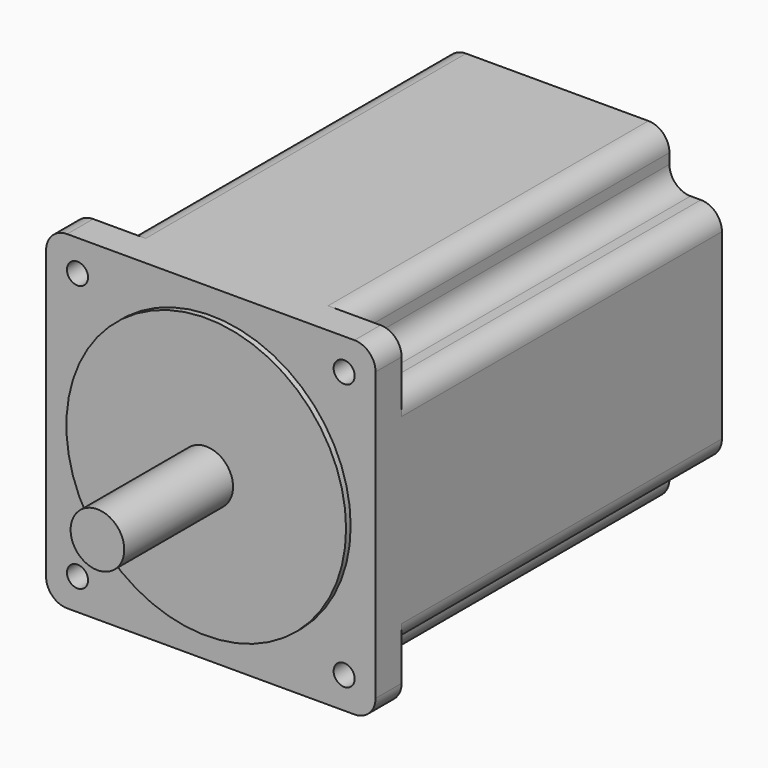
from build123d import *

# Parameters (mm, degrees)
F1_W      = 86
F1_H      = 86
F1_R      = 2.75
F2_DEPTH  = 8.5
F3_R      = 36.5
F4_DEPTH  = 1.5
F5_R      = 7
F6_DEPTH  = 37
F8_DEPTH  = 113
F9_R      = 5.5
F10_R     = 3.175
F11_DEPTH = 13.5


with BuildPart() as f2:
    # F1 (on Front) → F2 (new body)
    with BuildSketch(Plane.XZ):
        Rectangle(F1_W, F1_H)
        with Locations((-34.8, -34.8)):
            Circle(F1_R, mode=Mode.SUBTRACT)
        with Locations((34.8, -34.8)):
            Circle(F1_R, mode=Mode.SUBTRACT)
        with Locations((-34.8, 34.8)):
            Circle(F1_R, mode=Mode.SUBTRACT)
        with Locations((34.8, 34.8)):
            Circle(F1_R, mode=Mode.SUBTRACT)
    extrude(amount=-F2_DEPTH)

    # F3 (on Front) → F4 (join)
    with BuildSketch(Plane.XZ):
        Circle(F3_R)
    extrude(amount=F4_DEPTH)

    # F5 (on Front) → F6 (join)
    with BuildSketch(Plane.XZ):
        Circle(F5_R)
    extrude(amount=F6_DEPTH)

    # F7 (on Front) → F8 (join)
    with BuildSketch(Plane.XZ):
        with BuildLine():
            ThreePointArc((34.8, 29.3), (30.9109127035, 30.9109127035), (29.3, 34.8))
            Line((29.3, 34.8), (29.3, 43))
            Line((29.3, 43), (-29.3, 43))
            Line((-29.3, 43), (-29.3, 34.8))
            ThreePointArc((-29.3, 34.8), (-30.9109127035, 30.9109127035), (-34.8, 29.3))
            Line((-34.8, 29.3), (-43, 29.3))
            Line((-43, 29.3), (-43, -29.3))
            Line((-43, -29.3), (-34.8, -29.3))
            ThreePointArc((-34.8, -29.3), (-30.9109127035, -30.9109127035), (-29.3, -34.8))
            Line((-29.3, -34.8), (-29.3, -43))
            Line((-29.3, -43), (29.3, -43))
            Line((29.3, -43), (29.3, -34.8))
            ThreePointArc((29.3, -34.8), (30.9109127035, -30.9109127035), (34.8, -29.3))
            Line((34.8, -29.3), (43, -29.3))
            Line((43, -29.3), (43, 29.3))
            Line((43, 29.3), (34.8, 29.3))
        make_face()
    extrude(amount=-F8_DEPTH)

    # F9
    f9_edges = [f2.edges().sort_by_distance(p)[0] for p in [
        (29.3, 60.75, 43),
        (43, 60.75, 29.3),
        (43, 4.25, 43),
        (-29.3, 60.75, 43),
        (-43, 60.75, 29.3),
        (-43, 4.25, 43),
        (43, 60.75, -29.3),
        (29.3, 60.75, -43),
        (-43, 4.25, -43),
        (-29.3, 60.75, -43),
        (-43, 60.75, -29.3),
        (43, 4.25, -43),
    ]]
    fillet(f9_edges, radius=F9_R)

    # F10 (on face) → F11 (join)
    with BuildSketch(Plane(origin=(0, 113, 0), x_dir=(-1, 0, 0), z_dir=(0, 1, 0))):
        Circle(F10_R)
    extrude(amount=F11_DEPTH)


solid = f2.part
